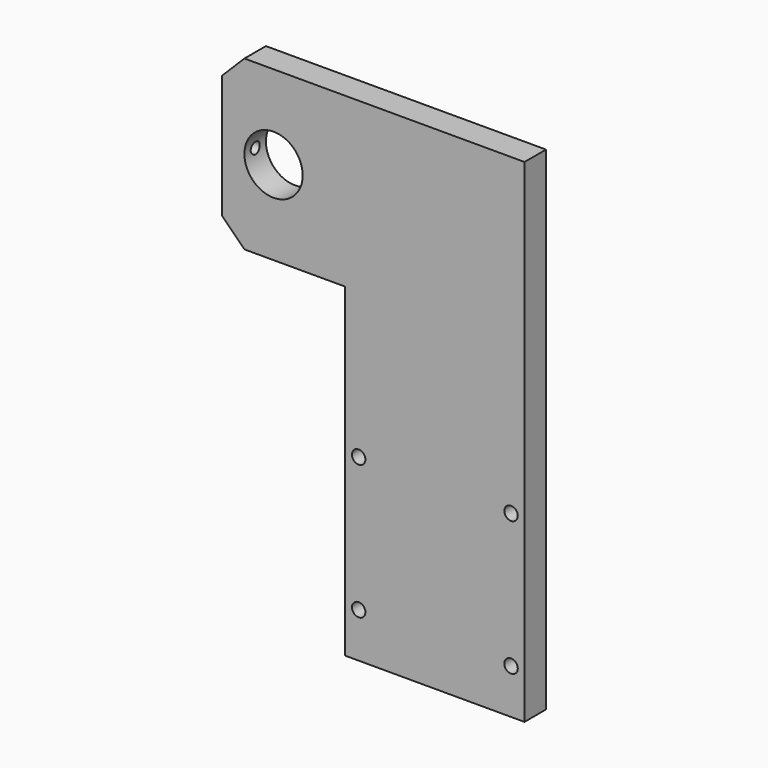
from build123d import *

# Parameters (mm, degrees)
F0_R     = 3
F0_R_2   = 13
F1_DEPTH = 12
F2_SIZE  = 10
F3_R     = 2.5
F4_DEPTH = 25
F5_R     = 5.25
F5_R_2   = 3
F6_DEPTH = 6


with BuildPart() as f1:
    # F0 (on Front) → F1 (new body)
    with BuildSketch(Plane.XZ):
        Polygon((0, 145), (0, 0), (80, 0), (80, 220), (-55, 220), (-55, 145), align=None)
        with Locations((6, 20)):
            Circle(F0_R, mode=Mode.SUBTRACT)
        with Locations((6, 80)):
            Circle(F0_R, mode=Mode.SUBTRACT)
        with Locations((74, 20)):
            Circle(F0_R, mode=Mode.SUBTRACT)
        with Locations((74, 80)):
            Circle(F0_R, mode=Mode.SUBTRACT)
        with Locations((-32, 182.5)):
            Circle(F0_R_2, mode=Mode.SUBTRACT)
    extrude(amount=F1_DEPTH)

    # F2
    f2_edges = [f1.edges().sort_by_distance(p)[0] for p in [
        (-55, -6, 220),
        (-55, -6, 145),
    ]]
    chamfer(f2_edges, length=F2_SIZE)

    # F3 (on face) → F4 (cut)
    with BuildSketch(Plane(origin=(-55, 0, 0), x_dir=(0, -1, 0), z_dir=(-1, 0, 0))):
        with Locations((6, 182.5)):
            Circle(F3_R)
    extrude(amount=-F4_DEPTH, mode=Mode.SUBTRACT)

    # F5 (on face) → F6 (cut)
    with BuildSketch(Plane(origin=(0, 0, 0), x_dir=(-1, 0, 0), z_dir=(0, 1, 0))):
        with Locations((-74, 80)):
            Circle(F5_R)
        with Locations((-74, 80)):
            Circle(F5_R_2, mode=Mode.SUBTRACT)
        with Locations((-6, 80)):
            Circle(F5_R)
        with Locations((-6, 80)):
            Circle(F5_R_2, mode=Mode.SUBTRACT)
        with Locations((-6, 20)):
            Circle(F5_R)
        with Locations((-6, 20)):
            Circle(F5_R_2, mode=Mode.SUBTRACT)
        with Locations((-74, 20)):
            Circle(F5_R)
        with Locations((-74, 20)):
            Circle(F5_R_2, mode=Mode.SUBTRACT)
    extrude(amount=-F6_DEPTH, mode=Mode.SUBTRACT)


solid = f1.part
